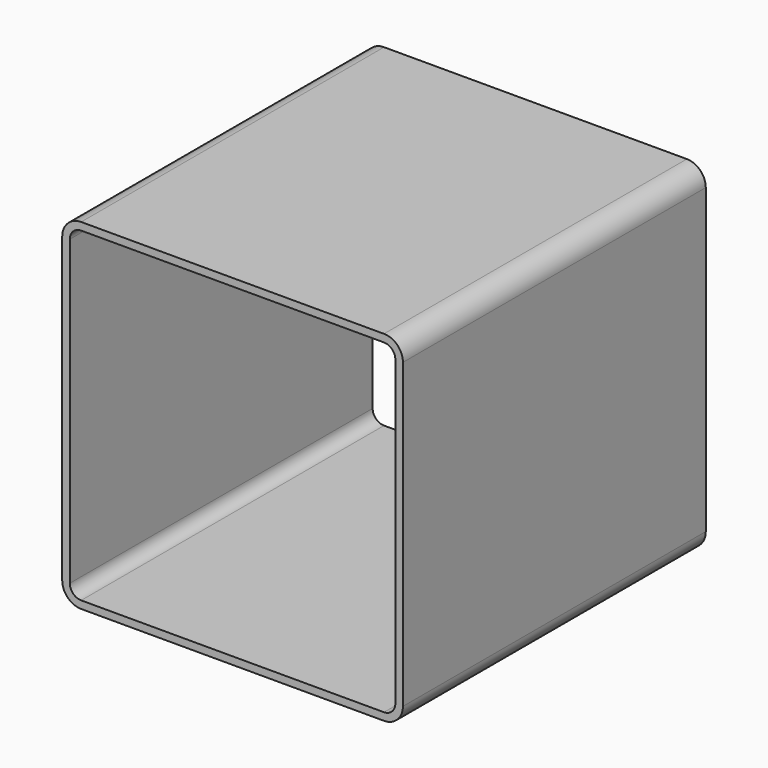
from build123d import *

# Parameters (mm, degrees)
F0_W     = 90
F0_H     = 90
F0_W_2   = 86
F0_H_2   = 86
F1_DEPTH = 100
F2_R     = 5
F3_R     = 3


with BuildPart() as f1:
    # F0 (on Front) → F1 (new body)
    with BuildSketch(Plane.XZ):
        Rectangle(F0_W, F0_H)
        Rectangle(F0_W_2, F0_H_2, mode=Mode.SUBTRACT)
    extrude(amount=F1_DEPTH)

    # F2
    f2_edges = [f1.edges().sort_by_distance(p)[0] for p in [
        (45, -50, 45),
        (-45, -50, 45),
        (45, -50, -45),
        (-45, -50, -45),
    ]]
    fillet(f2_edges, radius=F2_R)

    # F3
    f3_edges = [f1.edges().sort_by_distance(p)[0] for p in [
        (-43, -50, 43),
        (43, -50, 43),
        (-43, -50, -43),
        (43, -50, -43),
    ]]
    fillet(f3_edges, radius=F3_R)


solid = f1.part
